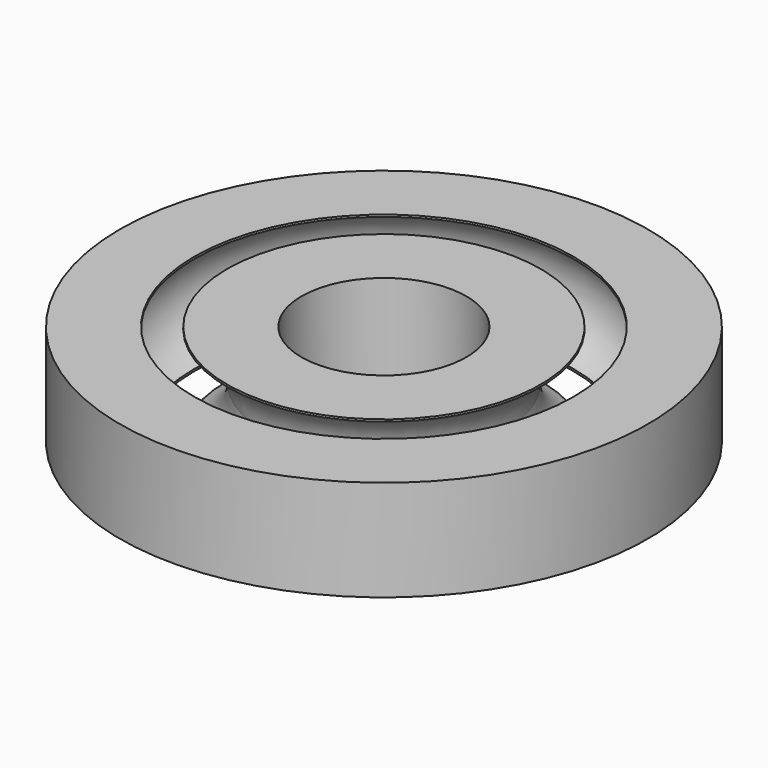
from build123d import *

# Parameters (mm, degrees)
F4_D = 10


with BuildPart() as f1:
    # F0 (on Front) → F1 (revolve)
    with BuildSketch(Plane.XZ):
        with BuildLine():
            Line((1, 3.059412), (1, 2.93428))
            ThreePointArc((1, 2.93428), (2.520913, 1.804162), (3.1, 0))
            ThreePointArc((3.1, 0), (2.520913, -1.804162), (1, -2.93428))
            Line((1, -2.93428), (1, -3.059412))
            Line((1, -3.059412), (10.5, -3.059412))
            Line((10.5, -3.059412), (10.5, 3.059412))
            Line((10.5, 3.059412), (1, 3.059412))
        make_face()
    revolve(axis=Axis((10.5, 0, 0), (0, 0, -1)))

    # F4 (through all)
    with Locations(Plane.XY.offset(3.059412)):
        with Locations((10.5, 0)):
            Hole(F4_D / 2)


with BuildPart() as f2:
    # F0 (on Front) → F2 (revolve)
    with BuildSketch(Plane.XZ):
        with BuildLine():
            ThreePointArc((-1, -2.93428), (-3.1, 0), (-1, 2.93428))
            Line((-1, 2.93428), (-1, 3.059412))
            Line((-1, 3.059412), (-5.5, 3.059412))
            Line((-5.5, 3.059412), (-5.5, -3.059412))
            Line((-5.5, -3.059412), (-1, -3.059412))
            Line((-1, -3.059412), (-1, -2.93428))
        make_face()
    revolve(axis=Axis((10.5, 0, 0), (0, 0, -1)))


solid = Compound([f1.part, f2.part])
